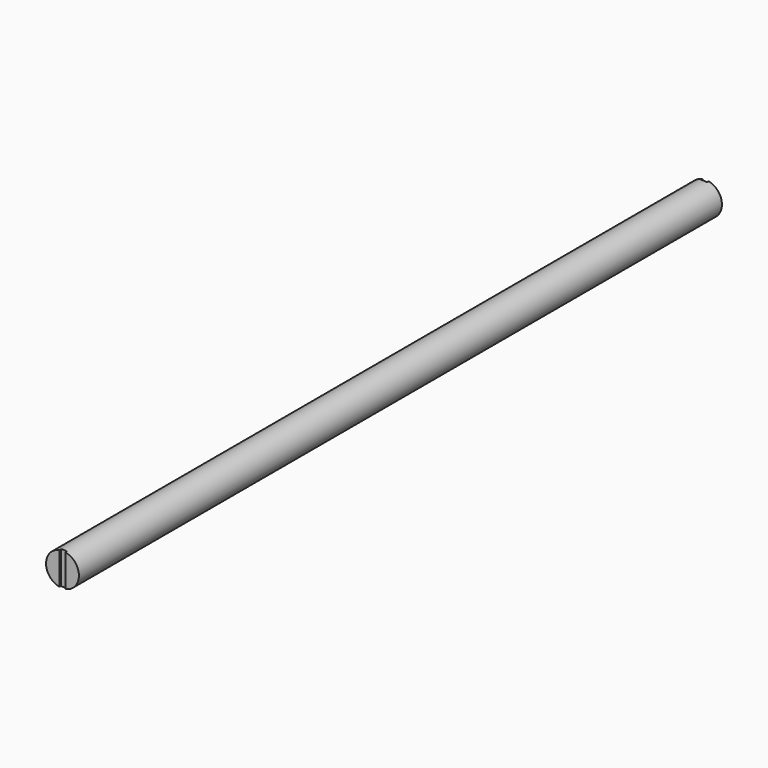
from build123d import *

# Parameters (mm, degrees)
F0_R     = 6.35
F1_DEPTH = 155.321
F2_W     = 2.286
F2_H     = 12.7
F3_DEPTH = 0.762
F4_W     = 2.286
F4_H     = 12.7
F5_DEPTH = 0.762


with BuildPart() as f1:
    # F0 (on Front) → F1 (new body, symmetric)
    with BuildSketch(Plane.XZ):
        Circle(F0_R)
    extrude(amount=F1_DEPTH, both=True)

    # F2 (on face) → F3 (cut)
    with BuildSketch(Plane.XZ.offset(155.321)):
        Rectangle(F2_W, F2_H)
    extrude(amount=-F3_DEPTH, mode=Mode.SUBTRACT)

    # F4 (on face) → F5 (cut)
    with BuildSketch(Plane(origin=(0, 155.321, 0), x_dir=(-1, 0, 0), z_dir=(0, 1, 0))):
        Rectangle(F4_W, F4_H)
    extrude(amount=-F5_DEPTH, mode=Mode.SUBTRACT)


solid = f1.part
